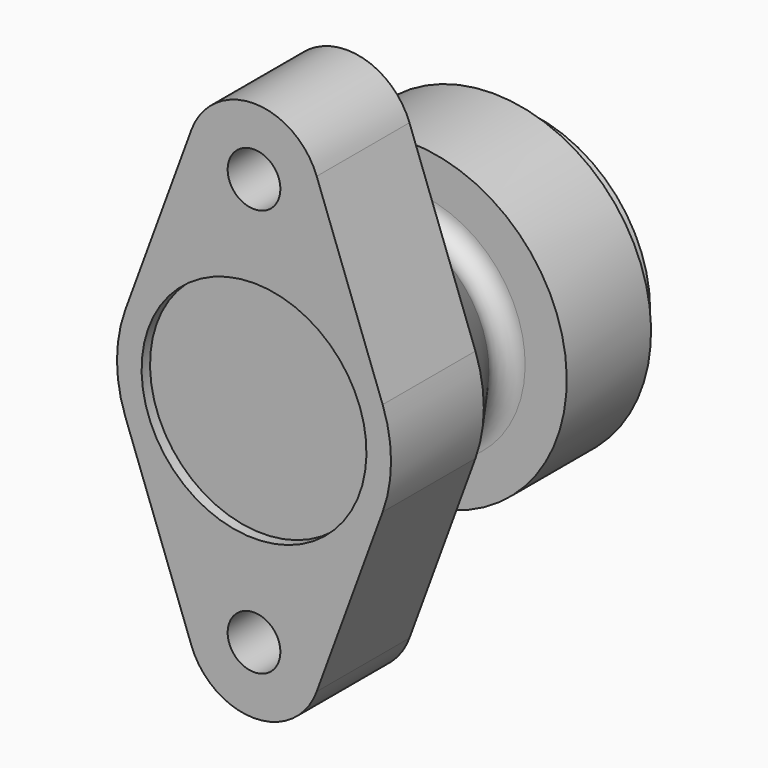
from build123d import *

# Parameters (mm, degrees)
F2_R     = 7.5
F3_DEPTH = 33


with BuildPart() as f1:
    # F0 (on Right) → F1 (revolve)
    with BuildSketch(Plane.YZ):
        with BuildLine():
            Line((3, 32), (3, 0))
            Line((3, 0), (24, 0))
            Line((24, 0), (24, 26))
            Line((24, 26), (66, 26))
            Line((66, 26), (66, 29))
            Line((66, 29), (93, 30.3359316767))
            Line((93, 30.3359316767), (93, 38.3359316767))
            Line((93, 38.3359316767), (85, 38.3359316767))
            Line((85, 38.3359316767), (85, 45))
            Line((85, 45), (55, 45))
            Line((55, 45), (55, 38.3359316767))
            Line((55, 38.3359316767), (55, 33.1562738389))
            ThreePointArc((55, 33.1562738389), (52.5710475058, 28.8679507724), (47.6441141108, 28.7460809092))
            Line((47.6441141108, 28.7460809092), (33, 39))
            Line((33, 39), (0, 39))
            Line((0, 39), (0, 32))
            Line((0, 32), (3, 32))
        make_face()
    revolve(axis=Axis((0, 13.5, 0), (0, 1, 0)))

    # F2 (on face) → F3 (join)
    with BuildSketch(Plane.XZ):
        with BuildLine():
            Line((36.6079755837, 13.4482758621), (17.8346547716, 64.5517241379))
            ThreePointArc((17.8346547716, 64.5517241379), (0, 77), (-17.8346547716, 64.5517241379))
            Line((-17.8346547716, 64.5517241379), (-36.6079755837, 13.4482758621))
            ThreePointArc((-36.6079755837, 13.4482758621), (-22.3217073874, 31.980328005), (0, 39))
            ThreePointArc((0, 39), (22.3217073874, 31.980328005), (36.6079755837, 13.4482758621))
        make_face()
        with Locations((0, 58)):
            Circle(F2_R, mode=Mode.SUBTRACT)
        with BuildLine():
            ThreePointArc((36.6079755837, -13.4482758621), (0, -39), (-36.6079755837, -13.4482758621))
            Line((-36.6079755837, -13.4482758621), (-17.8346547716, -64.5517241379))
            ThreePointArc((-17.8346547716, -64.5517241379), (0, -77), (17.8346547716, -64.5517241379))
            Line((17.8346547716, -64.5517241379), (36.6079755837, -13.4482758621))
        make_face()
        with Locations((0, -58)):
            Circle(F2_R, mode=Mode.SUBTRACT)
    extrude(amount=-F3_DEPTH)


solid = f1.part
